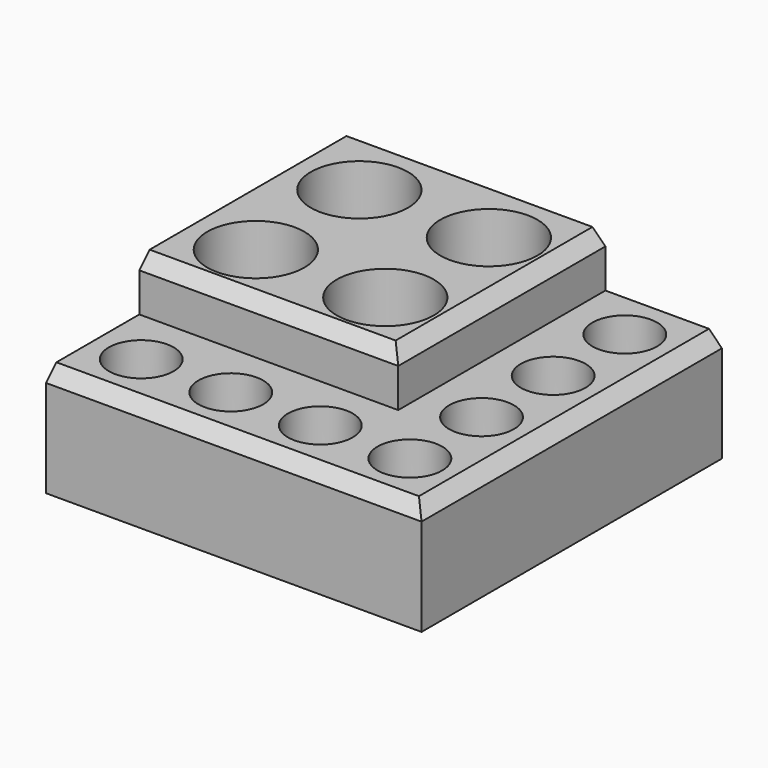
from build123d import *

# Parameters (mm, degrees)
F0_R     = 7.5
F1_DEPTH = 25
F0_R_2   = 5
F2_DEPTH = 17
F3_DEPTH = 3
F4_SIZE  = 2


with BuildPart() as f1:
    # F0 (on Top) → F1 (new body)
    with BuildSketch(Plane.XY):
        Polygon((20, 0), (0, 0), (0, -20), (0, -40), (40, -40), (40, 0), align=None)
        with Locations((10, -30)):
            Circle(F0_R, mode=Mode.SUBTRACT)
        with Locations((30, -30)):
            Circle(F0_R, mode=Mode.SUBTRACT)
        with Locations((10, -10)):
            Circle(F0_R, mode=Mode.SUBTRACT)
        with Locations((30, -10)):
            Circle(F0_R, mode=Mode.SUBTRACT)
    extrude(amount=F1_DEPTH)

    # F0 (on Top) → F2 (join)
    with BuildSketch(Plane.XY):
        Polygon((58, 0), (40, 0), (40, -40), (0, -40), (0, -58), (58, -58), align=None)
        with Locations((7.5, -49)):
            Circle(F0_R_2, mode=Mode.SUBTRACT)
        with Locations((21.333333, -49)):
            Circle(F0_R_2, mode=Mode.SUBTRACT)
        with Locations((35.166667, -49)):
            Circle(F0_R_2, mode=Mode.SUBTRACT)
        with Locations((49, -49)):
            Circle(F0_R_2, mode=Mode.SUBTRACT)
        with Locations((49, -35.166667)):
            Circle(F0_R_2, mode=Mode.SUBTRACT)
        with Locations((49, -21.333333)):
            Circle(F0_R_2, mode=Mode.SUBTRACT)
        with Locations((49, -7.5)):
            Circle(F0_R_2, mode=Mode.SUBTRACT)
    extrude(amount=F2_DEPTH)

    # F0 (on Top) → F3 (join)
    with BuildSketch(Plane.XY):
        with Locations((10, -10)):
            Circle(F0_R)
        with Locations((30, -10)):
            Circle(F0_R)
        with Locations((30, -30)):
            Circle(F0_R)
        with Locations((10, -30)):
            Circle(F0_R)
        with Locations((7.5, -49)):
            Circle(F0_R_2)
        with Locations((21.333333, -49)):
            Circle(F0_R_2)
        with Locations((35.166667, -49)):
            Circle(F0_R_2)
        with Locations((49, -49)):
            Circle(F0_R_2)
        with Locations((49, -35.166667)):
            Circle(F0_R_2)
        with Locations((49, -21.333333)):
            Circle(F0_R_2)
        with Locations((49, -7.5)):
            Circle(F0_R_2)
    extrude(amount=F3_DEPTH)

    # F4
    f4_edges = [f1.edges().sort_by_distance(p)[0] for p in [
        (20, -40, 25),
        (40, -20, 25),
        (29, -58, 17),
        (58, -29, 17),
    ]]
    chamfer(f4_edges, length=F4_SIZE)


solid = f1.part
